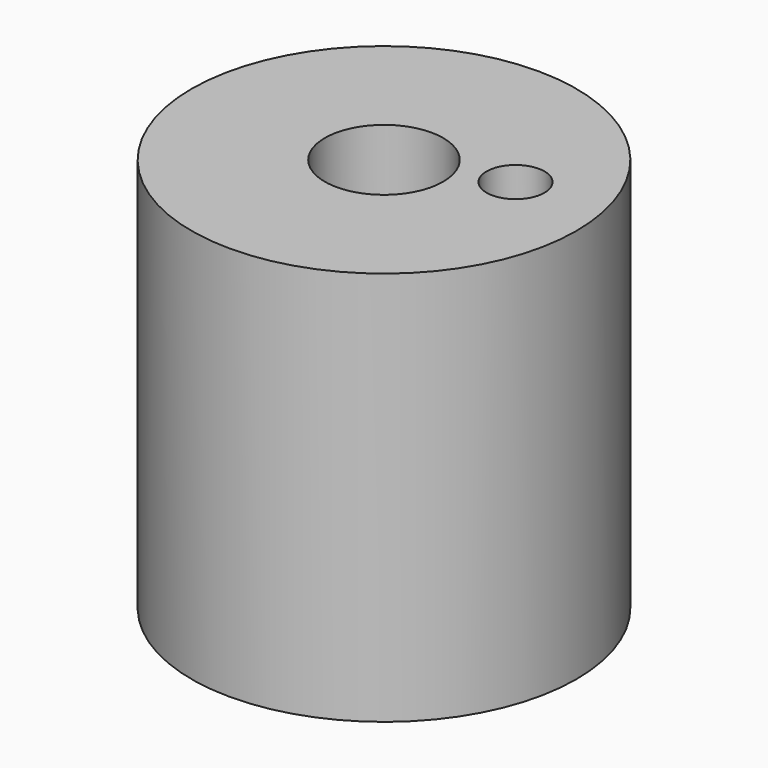
from build123d import *

# Parameters (mm, degrees)
F0_R     = 4.875
F1_DEPTH = 10
F2_R     = 1.5
F3_DEPTH = 10
F4_R     = 0.733358
F5_DEPTH = 3.3


with BuildPart() as f1:
    # F0 (on Top) → F1 (new body)
    with BuildSketch(Plane.XY):
        Circle(F0_R)
    extrude(amount=F1_DEPTH)

    # F2 (on face) → F3 (cut)
    with BuildSketch(Plane.XY.offset(10)):
        Circle(F2_R)
    extrude(amount=-F3_DEPTH, mode=Mode.SUBTRACT)

    # F4 (on face) → F5 (cut)
    with BuildSketch(Plane.XY.offset(10)):
        with Locations((2.626942, 0.882414)):
            Circle(F4_R)
    extrude(amount=-F5_DEPTH, mode=Mode.SUBTRACT)


solid = f1.part
